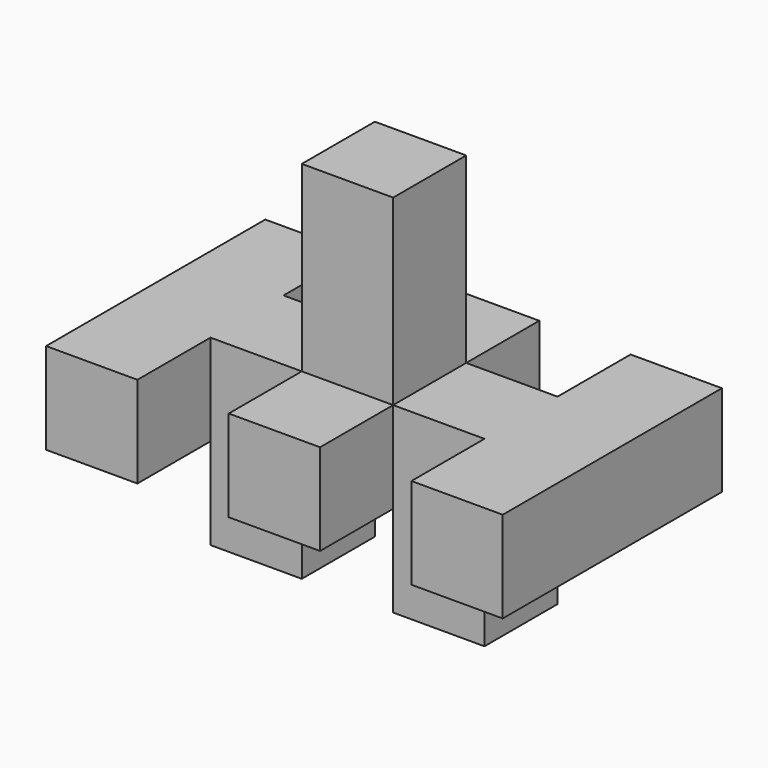
from build123d import *

# Parameters (mm, degrees)
F0_W     = 25.4
F0_H     = 25.4
F1_DEPTH = 25.4
F2_W     = 25.4
F2_H     = 25.4
F3_DEPTH = 50.8
F4_W     = 25.4
F4_H     = 25.4
F5_DEPTH = 25.4


with BuildPart() as f1:
    # F0 (on Top) → F1 (new body)
    with BuildSketch(Plane.XY):
        Polygon((63.5, -12.7), (63.5, 12.7), (38.1, 12.7), (12.7, 12.7), (-12.7, 12.7), (-38.1, 12.7), (-63.5, 12.7), (-63.5, -12.7), (-38.1, -12.7), (-12.7, -12.7), (12.7, -12.7), (38.1, -12.7), align=None)
        with Locations((50.8, 25.4)):
            Rectangle(F0_W, F0_H)
        with Locations((50.8, -25.4)):
            Rectangle(F0_W, F0_H)
        with Locations((0, 25.4)):
            Rectangle(F0_W, F0_H)
        with Locations((0, -25.4)):
            Rectangle(F0_W, F0_H)
        with Locations((-50.8, 25.4)):
            Rectangle(F0_W, F0_H)
        with Locations((-50.8, -25.4)):
            Rectangle(F0_W, F0_H)
    extrude(amount=F1_DEPTH)

    # F2 (on face) → F3 (join)
    with BuildSketch(Plane.XY.offset(25.4)):
        Rectangle(F2_W, F2_H)
    extrude(amount=F3_DEPTH)

    # F4 (on face) → F5 (join)
    with BuildSketch(Plane(origin=(0, 0, 0), x_dir=(1, 0, 0), z_dir=(0, 0, -1))):
        with Locations((-25.4, 0)):
            Rectangle(F4_W, F4_H)
        with Locations((25.4, 0)):
            Rectangle(F4_W, F4_H)
    extrude(amount=F5_DEPTH)


solid = f1.part
